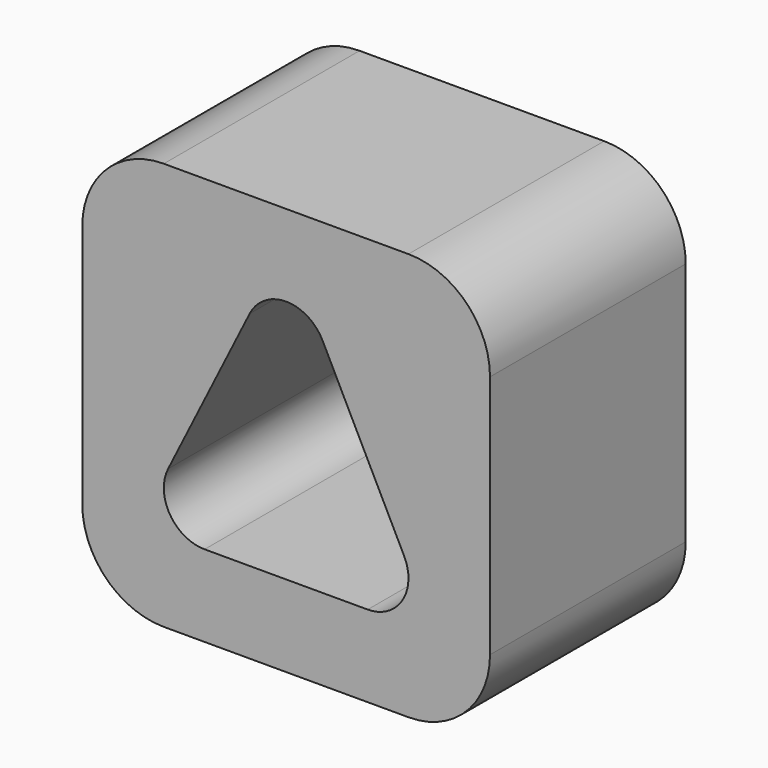
from build123d import *

# Parameters (mm, degrees)
F0_W     = 63.5
F0_H     = 63.5
F1_DEPTH = 38.1
F2_R     = 12.7


with BuildPart() as f1:
    # F0 (on Front) → F1 (new body)
    with BuildSketch(Plane.XZ):
        with Locations((31.75, 31.75)):
            Rectangle(F0_W, F0_H)
        with BuildLine():
            ThreePointArc((19.05, 12.7), (13.648367, 15.711607), (13.370387, 21.889806))
            Line((13.370387, 21.889806), (26.070387, 47.289806))
            ThreePointArc((26.070387, 47.289806), (31.75, 50.8), (37.429613, 47.289806))
            Line((37.429613, 47.289806), (50.129613, 21.889806))
            ThreePointArc((50.129613, 21.889806), (49.851633, 15.711607), (44.45, 12.7))
            Line((44.45, 12.7), (19.05, 12.7))
        make_face(mode=Mode.SUBTRACT)
    extrude(amount=F1_DEPTH)

    # F2
    f2_edges = [f1.edges().sort_by_distance(p)[0] for p in [
        (63.5, -19.05, 0),
        (63.5, -19.05, 63.5),
        (0, -19.05, 63.5),
        (0, -19.05, 0),
    ]]
    fillet(f2_edges, radius=F2_R)


solid = f1.part
